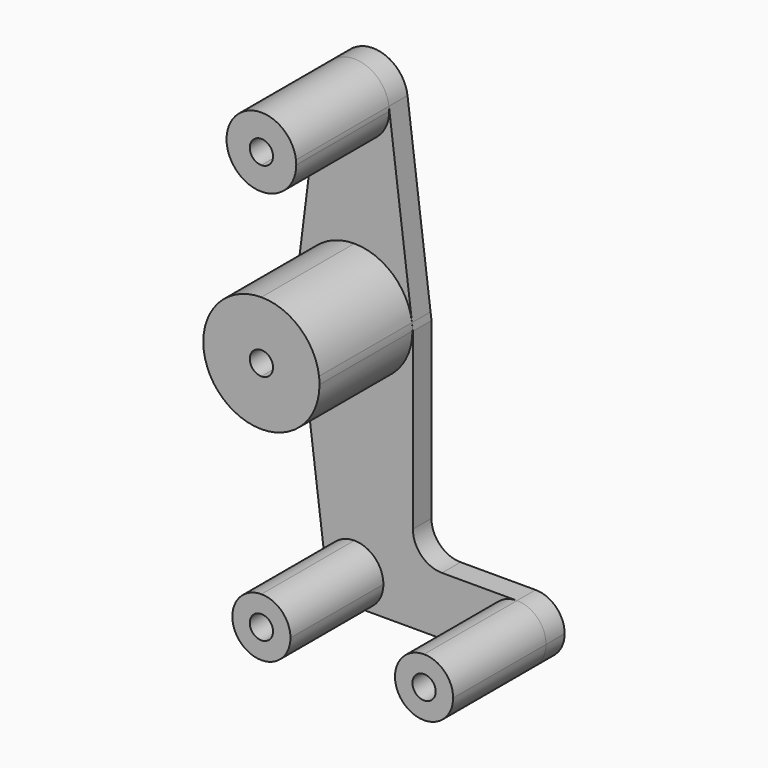
from build123d import *

# Parameters (mm, degrees)
F1_DEPTH = 6.35
F2_DEPTH = 31.75


with BuildPart() as f1:
    # F0 (on Front) → F1 (new body)
    with BuildSketch(Plane.XZ):
        with BuildLine():
            ThreePointArc((0, -15.875), (11.2253201513, -11.2253201513), (15.875, 0))
            ThreePointArc((15.875, 0), (15.8438414983, 0.9941386111), (15.7504883051, 1.9843747505))
            ThreePointArc((15.7504883051, 1.9843747505), (10.5003256101, 11.9062499168), (0, 15.875))
            Line((0, 15.875), (0, 3.175))
            ThreePointArc((0, 3.175), (2.2450640303, 2.2450640303), (3.175, 0))
            ThreePointArc((3.175, 0), (2.2450640303, -2.2450640303), (0, -3.175))
            Line((0, -3.175), (0, -15.875))
        make_face()
        with BuildLine():
            ThreePointArc((-15.7504893995, -1.9843660644), (-10.5003288931, -11.9062470215), (0, -15.875))
            Line((0, -15.875), (0, -3.175))
            ThreePointArc((0, -3.175), (-3.175, 0), (0, 3.175))
            Line((0, 3.175), (0, 15.875))
            ThreePointArc((0, 15.875), (-10.5003288957, 11.9062470192), (-15.7504894003, 1.9843660577))
            ThreePointArc((-15.7504894003, 1.9843660577), (-15.875, -3.4e-09), (-15.7504893995, -1.9843660644))
        make_face()
        with BuildLine():
            ThreePointArc((9.525, 50.8), (9.5063048942, 51.396483242), (9.4502929642, 51.990625))
            ThreePointArc((9.4502929642, 51.990625), (0, 60.325), (-9.4502929642, 51.990625))
            ThreePointArc((-9.4502929642, 51.990625), (-7.14375, 44.4998046905), (0, 41.275))
            ThreePointArc((0, 41.275), (6.7351920908, 44.0648079092), (9.525, 50.8))
        make_face()
        with BuildLine():
            ThreePointArc((3.175, 50.8), (2.2450640303, 48.5549359697), (0, 47.625))
            ThreePointArc((0, 47.625), (-2.2450640303, 53.0450640303), (3.175, 50.8))
        make_face(mode=Mode.SUBTRACT)
        with BuildLine():
            ThreePointArc((7.937499997, -63.5), (5.6126600736, -57.8873399264), (0, -55.562500003))
            Line((0, -55.562500003), (0, -60.325))
            ThreePointArc((0, -60.325), (2.2450640303, -61.2549359697), (3.175, -63.5))
            Line((3.175, -63.5), (7.937499997, -63.5))
        make_face()
        with BuildLine():
            Line((0, -60.325), (0, -55.562500003))
            ThreePointArc((0, -55.562500003), (-5.9531249979, -58.2498372442), (-7.8752441339, -64.4921875))
            ThreePointArc((-7.8752441339, -64.4921875), (-5.2501627558, -69.4531249979), (0, -71.437499997))
            ThreePointArc((0, -71.437499997), (5.6126600736, -69.1126600736), (7.937499997, -63.5))
            Line((7.937499997, -63.5), (3.175, -63.5))
            ThreePointArc((3.175, -63.5), (-2.2450640303, -65.7450640303), (0, -60.325))
        make_face()
        with BuildLine():
            ThreePointArc((44.45, -55.562499997), (38.8373399222, -57.8873399222), (36.512499997, -63.5))
            ThreePointArc((36.512499997, -63.5), (38.8373399222, -69.1126600778), (44.45, -71.437500003))
            ThreePointArc((44.45, -71.437500003), (50.0626600778, -69.1126600778), (52.387500003, -63.5))
            ThreePointArc((52.387500003, -63.5), (50.0626600778, -57.8873399222), (44.45, -55.562499997))
        make_face()
        with BuildLine():
            ThreePointArc((47.625, -63.5), (44.45, -66.675), (41.275, -63.5))
            ThreePointArc((41.275, -63.5), (44.45, -60.325), (47.625, -63.5))
        make_face(mode=Mode.SUBTRACT)
        with BuildLine():
            ThreePointArc((-15.7504894003, 1.9843660577), (-10.5003288957, 11.9062470192), (0, 15.875))
            Line((0, 15.875), (0, 41.275))
            ThreePointArc((0, 41.275), (-7.14375, 44.4998046905), (-9.4502929642, 51.990625))
            Line((-9.4502929642, 51.990625), (-15.7504894003, 1.9843660577))
        make_face()
        with BuildLine():
            ThreePointArc((15.7504883051, 1.9843747505), (15.8438414983, 0.9941386111), (15.875, 0))
            ThreePointArc((15.875, 0), (11.2253201513, -11.2253201513), (0, -15.875))
            Line((0, -15.875), (0, -55.562500003))
            ThreePointArc((0, -55.562500003), (5.6126600736, -57.8873399264), (7.937499997, -63.5))
            Line((7.937499997, -63.5), (36.512499997, -63.5))
            ThreePointArc((36.512499997, -63.5), (38.8373399222, -57.8873399222), (44.45, -55.562499997))
            Line((44.45, -55.5624999909), (23.9506960241, -55.5624999909))
            ThreePointArc((23.9506960241, -55.5624999909), (18.3290556923, -53.2339403227), (16.0004960241, -47.6122999909))
            Line((16.0004960241, -47.6122999909), (16.0004960241, 0))
            Line((16.0004960241, 0), (15.7504883051, 1.9843747505))
        make_face()
        with BuildLine():
            Line((0, -55.562500003), (0, -15.875))
            ThreePointArc((0, -15.875), (-10.5003288931, -11.9062470215), (-15.7504893995, -1.9843660644))
            Line((-15.7504893995, -1.9843660644), (-7.8752441339, -64.4921875))
            ThreePointArc((-7.8752441339, -64.4921875), (-5.9531249979, -58.2498372442), (0, -55.562500003))
        make_face()
        with BuildLine():
            ThreePointArc((0, 15.875), (10.5003256101, 11.9062499168), (15.7504883051, 1.9843747505))
            Line((15.7504883051, 1.9843747505), (9.4502929642, 51.990625))
            ThreePointArc((9.4502929642, 51.990625), (9.5063048942, 51.396483242), (9.525, 50.8))
            ThreePointArc((9.525, 50.8), (6.7351920908, 44.0648079092), (0, 41.275))
            Line((0, 41.275), (0, 15.875))
        make_face()
        with BuildLine():
            Line((36.512499997, -63.5), (7.937499997, -63.5))
            ThreePointArc((7.937499997, -63.5), (5.6126600736, -69.1126600736), (0, -71.437499997))
            Line((0, -71.4374999998), (44.45, -71.4374999998))
            ThreePointArc((44.45, -71.437500003), (38.8373399222, -69.1126600778), (36.512499997, -63.5))
        make_face()
    extrude(amount=-F1_DEPTH)

    # F0 (on Front) → F2 (join)
    with BuildSketch(Plane.XZ):
        with BuildLine():
            ThreePointArc((-15.7504893995, -1.9843660644), (-10.5003288931, -11.9062470215), (0, -15.875))
            Line((0, -15.875), (0, -3.175))
            ThreePointArc((0, -3.175), (-3.175, 0), (0, 3.175))
            Line((0, 3.175), (0, 15.875))
            ThreePointArc((0, 15.875), (-10.5003288957, 11.9062470192), (-15.7504894003, 1.9843660577))
            ThreePointArc((-15.7504894003, 1.9843660577), (-15.875, -3.4e-09), (-15.7504893995, -1.9843660644))
        make_face()
        with BuildLine():
            ThreePointArc((0, -15.875), (11.2253201513, -11.2253201513), (15.875, 0))
            ThreePointArc((15.875, 0), (15.8438414983, 0.9941386111), (15.7504883051, 1.9843747505))
            ThreePointArc((15.7504883051, 1.9843747505), (10.5003256101, 11.9062499168), (0, 15.875))
            Line((0, 15.875), (0, 3.175))
            ThreePointArc((0, 3.175), (2.2450640303, 2.2450640303), (3.175, 0))
            ThreePointArc((3.175, 0), (2.2450640303, -2.2450640303), (0, -3.175))
            Line((0, -3.175), (0, -15.875))
        make_face()
        with BuildLine():
            Line((0, -60.325), (0, -55.562500003))
            ThreePointArc((0, -55.562500003), (-5.9531249979, -58.2498372442), (-7.8752441339, -64.4921875))
            ThreePointArc((-7.8752441339, -64.4921875), (-5.2501627558, -69.4531249979), (0, -71.437499997))
            ThreePointArc((0, -71.437499997), (5.6126600736, -69.1126600736), (7.937499997, -63.5))
            Line((7.937499997, -63.5), (3.175, -63.5))
            ThreePointArc((3.175, -63.5), (-2.2450640303, -65.7450640303), (0, -60.325))
        make_face()
        with BuildLine():
            ThreePointArc((7.937499997, -63.5), (5.6126600736, -57.8873399264), (0, -55.562500003))
            Line((0, -55.562500003), (0, -60.325))
            ThreePointArc((0, -60.325), (2.2450640303, -61.2549359697), (3.175, -63.5))
            Line((3.175, -63.5), (7.937499997, -63.5))
        make_face()
        with BuildLine():
            ThreePointArc((44.45, -55.562499997), (38.8373399222, -57.8873399222), (36.512499997, -63.5))
            ThreePointArc((36.512499997, -63.5), (38.8373399222, -69.1126600778), (44.45, -71.437500003))
            ThreePointArc((44.45, -71.437500003), (50.0626600778, -69.1126600778), (52.387500003, -63.5))
            ThreePointArc((52.387500003, -63.5), (50.0626600778, -57.8873399222), (44.45, -55.562499997))
        make_face()
        with BuildLine():
            ThreePointArc((47.625, -63.5), (44.45, -66.675), (41.275, -63.5))
            ThreePointArc((41.275, -63.5), (44.45, -60.325), (47.625, -63.5))
        make_face(mode=Mode.SUBTRACT)
        with BuildLine():
            ThreePointArc((9.525, 50.8), (9.5063048942, 51.396483242), (9.4502929642, 51.990625))
            ThreePointArc((9.4502929642, 51.990625), (0, 60.325), (-9.4502929642, 51.990625))
            ThreePointArc((-9.4502929642, 51.990625), (-7.14375, 44.4998046905), (0, 41.275))
            ThreePointArc((0, 41.275), (6.7351920908, 44.0648079092), (9.525, 50.8))
        make_face()
        with BuildLine():
            ThreePointArc((3.175, 50.8), (2.2450640303, 48.5549359697), (0, 47.625))
            ThreePointArc((0, 47.625), (-2.2450640303, 53.0450640303), (3.175, 50.8))
        make_face(mode=Mode.SUBTRACT)
    extrude(amount=F2_DEPTH)


solid = f1.part
